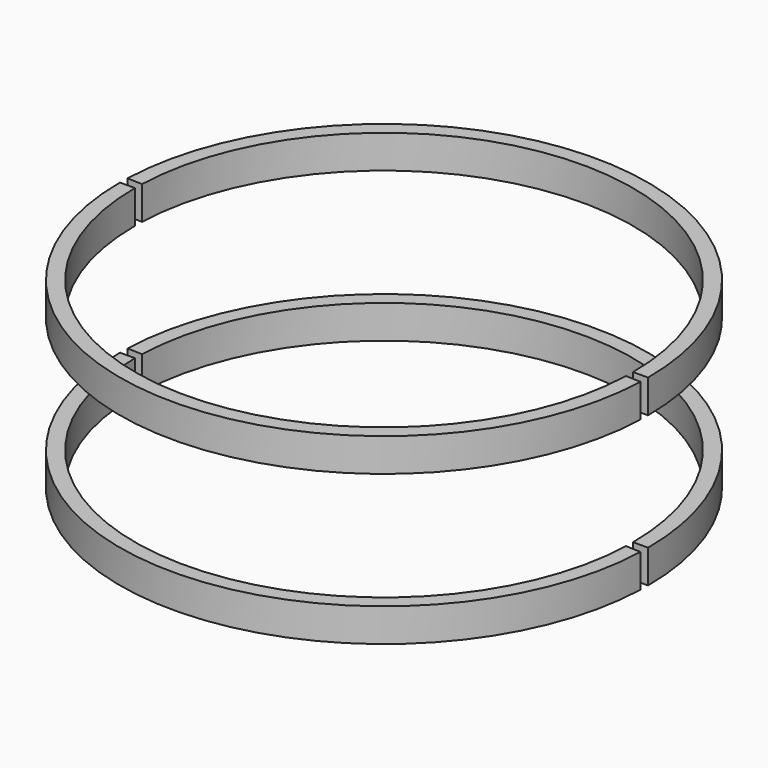
from build123d import *

# Parameters (mm, degrees)
CYLINDER069_R          = 22.45
CYLINDER069_DEPTH      = 17
CYLINDER068_W          = 23.8
CYLINDER068_H          = 3
CYLINDER068_ANGLE      = 178
CUT018_PLACEMENT_ANGLE = 180
CYLINDER067_R          = 22.45
CYLINDER067_DEPTH      = 17
CYLINDER066_W          = 23.8
CYLINDER066_H          = 3
CYLINDER066_ANGLE      = 178
CUT017_PLACEMENT_ANGLE = 180


with BuildPart() as cylinder069:
    # Cylinder069 → Cylinder069 (new body)
    with BuildSketch(Plane.XY):
        Circle(CYLINDER069_R)
    extrude(amount=CYLINDER069_DEPTH)


with BuildPart() as cylinder068:
    # Cylinder068 → Cylinder068 (revolve)
    with BuildSketch(Plane(origin=(0, 0, 1.8), x_dir=(1, 0, 0), z_dir=(0, -1, 0))):
        with Locations((11.9, 1.5)):
            Rectangle(CYLINDER068_W, CYLINDER068_H)
    revolve(axis=Axis((0, 0, 1.8), (0, 0, 1)), revolution_arc=CYLINDER068_ANGLE)


with BuildPart() as cut018:
    # Cut018 base: copy of Cylinder068
    add(cylinder068.part)

    # Cut018: cut Cylinder069
    add(cylinder069.part, mode=Mode.SUBTRACT)


with BuildPart() as cut018_1:
    # Cut018 placement: moved
    add(cut018.part.rotate(Axis((0, 0, 0), (0, 0, 1)), CUT018_PLACEMENT_ANGLE))


with BuildPart() as cylinder067:
    # Cylinder067 → Cylinder067 (new body)
    with BuildSketch(Plane.XY):
        Circle(CYLINDER067_R)
    extrude(amount=CYLINDER067_DEPTH)


with BuildPart() as cylinder066:
    # Cylinder066 → Cylinder066 (revolve)
    with BuildSketch(Plane(origin=(0, 0, 1.8), x_dir=(1, 0, 0), z_dir=(0, -1, 0))):
        with Locations((11.9, 1.5)):
            Rectangle(CYLINDER066_W, CYLINDER066_H)
    revolve(axis=Axis((0, 0, 1.8), (0, 0, 1)), revolution_arc=CYLINDER066_ANGLE)


with BuildPart() as fusion034:
    # Cut019 base: copy of Cylinder066
    add(cylinder066.part)

    # Cut019: cut Cylinder067
    add(cylinder067.part, mode=Mode.SUBTRACT)

    # Fusion034: union Cut018
    add(cut018_1.part)


with BuildPart() as cut017:
    # Cut017 base: copy of Cylinder068
    add(cylinder068.part)

    # Cut017: cut Cylinder069
    add(cylinder069.part, mode=Mode.SUBTRACT)


with BuildPart() as cut017_1:
    # Cut017 placement: moved
    add(cut017.part.rotate(Axis((0, 0, 0), (0, 0, 1)), CUT017_PLACEMENT_ANGLE))


with BuildPart() as rim_support_all:
    # Cut016 base: copy of Cylinder066
    add(cylinder066.part)

    # Cut016: cut Cylinder067
    add(cylinder067.part, mode=Mode.SUBTRACT)

    # Fusion033: union Cut017
    add(cut017_1.part)


with BuildPart() as rim_support_all_1:
    # Fusion033 placement: moved
    add(rim_support_all.part.moved(Location((0, 0, 13.5))))

    # Fusion032: union Fusion034
    add(fusion034.part)


solid = rim_support_all_1.part
